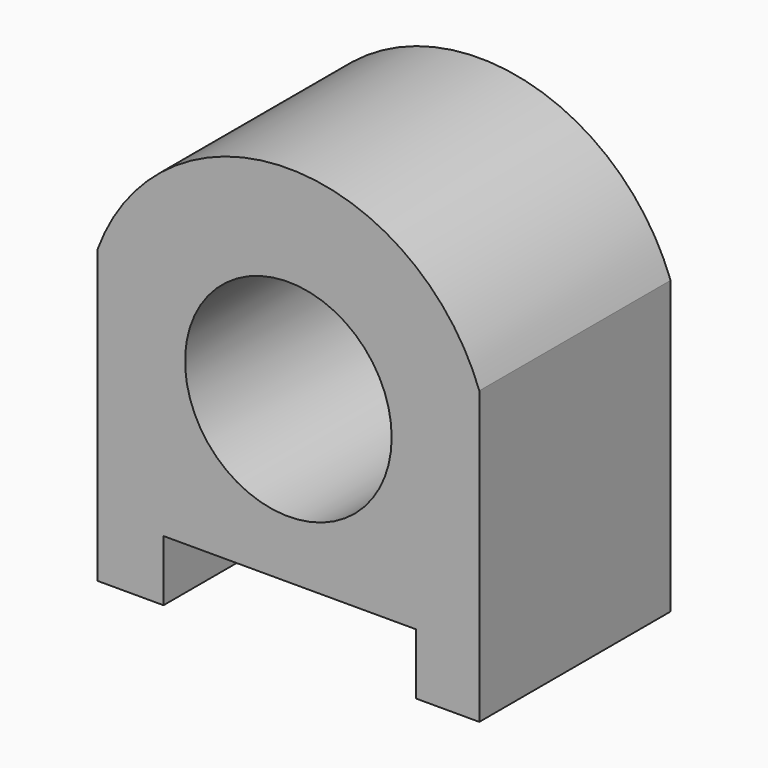
from build123d import *

# Parameters (mm, degrees)
F0_R     = 10.802028
F1_DEPTH = 25


with BuildPart() as f1:
    # F0 (on Front) → F1 (new body)
    with BuildSketch(Plane.XZ):
        with BuildLine():
            Line((-6.604285, 0), (0, 0))
            Line((0, 0), (0, 30.487223))
            ThreePointArc((0, 30.487223), (-19.966444, 44.463735), (-39.932887, 30.487223))
            Line((-39.932887, 30.487223), (-39.932887, 0))
            Line((-39.932887, 0), (-33.021425, 0))
            Line((-33.021425, 0), (-33.021425, 6.373903))
            Line((-33.021425, 6.373903), (-6.604285, 6.373903))
            Line((-6.604285, 6.373903), (-6.604285, 0))
        make_face()
        with Locations((-19.966444, 23.213735)):
            Circle(F0_R, mode=Mode.SUBTRACT)
    extrude(amount=F1_DEPTH)


solid = f1.part
